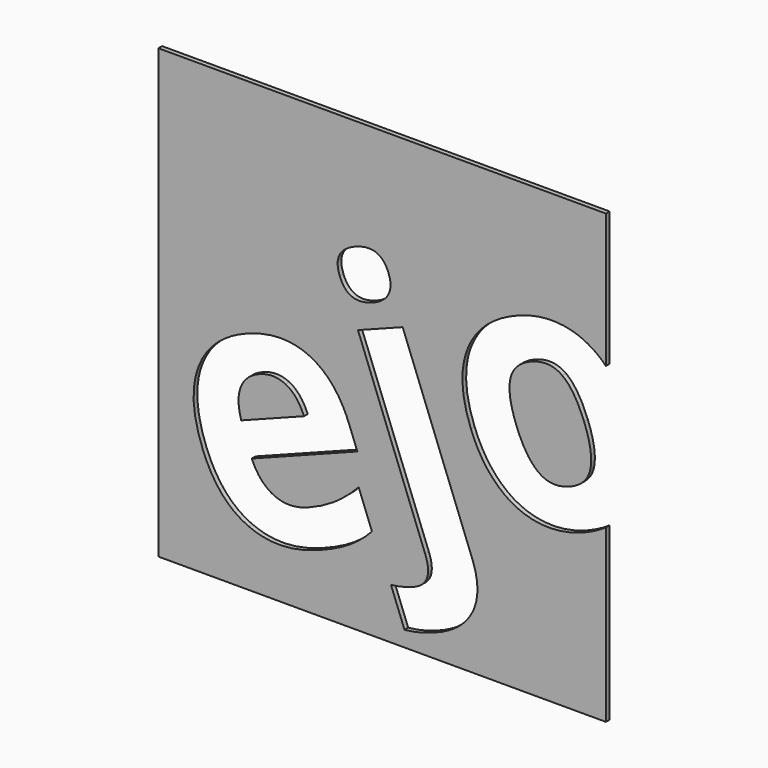
from build123d import *

# Parameters (mm, degrees)
F1_DEPTH = 3


with BuildPart() as f1:
    # F0 (on Front) → F1 (new body)
    with BuildSketch(Plane.XZ):
        with BuildLine():
            Line((156.9402193278, 193.3127623796), (-133.0597806722, 193.3127623796))
            Line((-133.0597806722, 193.3127623796), (-133.0597806722, -96.6872376204))
            Line((-133.0597806722, -96.6872376204), (156.9402193278, -96.6872376204))
            Line((156.9402193278, -96.6872376204), (156.9402193278, 14.2779064416))
            add(Edge.make_bspline(
                [(156.9402193278, 14.2779064416), (150.3960401846, 9.7043804493), (141.8449614262, 6.4219288531)],
                knots=[0.6495913367, 0.6495913367, 0.6495913367, 1, 1, 1], degree=2))
            add(Edge.make_bspline(
                [(141.8449614262, 6.4219288531), (126.5587975418, 0.5541203043), (112.3015772663, 2.7696804424)],
                knots=[0, 0, 0, 1, 1, 1], degree=2))
            add(Edge.make_bspline(
                [(112.3015772663, 2.7696804424), (98.0443569908, 4.9852405805), (86.9719498604, 15.1179921535)],
                knots=[0, 0, 0, 1, 1, 1], degree=2))
            add(Edge.make_bspline(
                [(86.9719498604, 15.1179921535), (75.89954273, 25.2507437265), (69.4834498834, 41.9652370395)],
                knots=[0, 0, 0, 1, 1, 1], degree=2))
            add(Edge.make_bspline(
                [(69.4834498834, 41.9652370395), (59.4976762893, 67.979066632), (67.5256347657, 87.623011686)],
                knots=[0, 0, 0, 1, 1, 1], degree=2))
            add(Edge.make_bspline(
                [(67.5256347657, 87.623011686), (75.5535932422, 107.2669567399), (100.169483394, 116.7161116596)],
                knots=[0, 0, 0, 1, 1, 1], degree=2))
            add(Edge.make_bspline(
                [(100.169483394, 116.7161116596), (115.4556472784, 122.5839202085), (129.6895363071, 120.429140046)],
                knots=[0, 0, 0, 1, 1, 1], degree=2))
            add(Edge.make_bspline(
                [(129.6895363071, 120.429140046), (143.9234253359, 118.2743598836), (154.9608355962, 108.2327782741)],
                knots=[0, 0, 0, 1, 1, 1], degree=2))
            add(Edge.make_bspline(
                [(154.9608355962, 108.2327782741), (155.9698376052, 107.3148114886), (156.9402193278, 106.3410792713)],
                knots=[0, 0, 0, 0.0914165538, 0.0914165538, 0.0914165538], degree=2))
            Line((156.9402193278, 106.3410792713), (156.9402193278, 193.3127623796))
        make_face()
        with BuildLine():
            add(Edge.make_bspline(
                [(-8.7196716461, -49.2474706648), (-16.6388251683, -54.4142969567), (-29.0987201834, -59.1972025333)],
                knots=[0, 0, 0, 1, 1, 1], degree=2))
            add(Edge.make_bspline(
                [(-29.0987201834, -59.1972025333), (-54.717479934, -69.0313230238), (-74.5889046434, -60.4107597844)],
                knots=[0, 0, 0, 1, 1, 1], degree=2))
            add(Edge.make_bspline(
                [(-74.5889046434, -60.4107597844), (-94.4603293529, -51.790196545), (-104.4111060769, -25.8675369161)],
                knots=[0, 0, 0, 1, 1, 1], degree=2))
            add(Edge.make_bspline(
                [(-104.4111060769, -25.8675369161), (-114.6535233849, 0.814872409), (-106.9059851223, 20.508080233)],
                knots=[0, 0, 0, 1, 1, 1], degree=2))
            add(Edge.make_bspline(
                [(-106.9059851223, 20.508080233), (-99.1584468598, 40.2012880571), (-75.6062062824, 49.2421461593)],
                knots=[0, 0, 0, 1, 1, 1], degree=2))
            add(Edge.make_bspline(
                [(-75.6062062824, 49.2421461593), (-53.1176152796, 57.8747074439), (-35.6646850497, 49.8773972036)],
                knots=[0, 0, 0, 1, 1, 1], degree=2))
            add(Edge.make_bspline(
                [(-35.6646850497, 49.8773972036), (-18.2117548197, 41.8800869633), (-9.5325310417, 19.2699360091)],
                knots=[0, 0, 0, 1, 1, 1], degree=2))
            Line((-9.5325310417, 19.2699360091), (-4.1313474271, 5.1993716384))
            Line((-4.1313474271, 5.1993716384), (-72.5999900345, -21.0832777863))
            add(Edge.make_bspline(
                [(-72.5999900345, -21.0832777863), (-67.3775071458, -33.2349628763), (-57.8799977559, -37.5391148487)],
                knots=[0, 0, 0, 1, 1, 1], degree=2))
            add(Edge.make_bspline(
                [(-57.8799977559, -37.5391148487), (-48.382488366, -41.8432668212), (-36.0441533023, -37.107023738)],
                knots=[0, 0, 0, 1, 1, 1], degree=2))
            add(Edge.make_bspline(
                [(-36.0441533023, -37.107023738), (-26.4409171443, -33.420686757), (-18.6654288907, -28.1521023899)],
                knots=[0, 0, 0, 1, 1, 1], degree=2))
            add(Edge.make_bspline(
                [(-18.6654288907, -28.1521023899), (-10.8899406371, -22.8835180228), (-3.270454121, -14.9376790261)],
                knots=[0, 0, 0, 1, 1, 1], degree=2))
            Line((-3.270454121, -14.9376790261), (5.3387759169, -37.3654900533))
            add(Edge.make_bspline(
                [(5.3387759169, -37.3654900533), (-0.8005181238, -44.0806443729), (-8.7196716461, -49.2474706648)],
                knots=[0, 0, 0, 1, 1, 1], degree=2))
        make_face(mode=Mode.SUBTRACT)
        with BuildLine():
            add(Edge.make_bspline(
                [(70.6191115949, -61.8192785463), (64.3565537639, -74.7533855956), (46.4264609373, -81.6361033766)],
                knots=[0, 0, 0, 1, 1, 1], degree=2))
            add(Edge.make_bspline(
                [(46.4264609373, -81.6361033766), (35.3037253872, -85.9057215255), (26.4199643274, -86.5613058057)],
                knots=[0, 0, 0, 1, 1, 1], degree=2))
            Line((26.4199643274, -86.5613058057), (17.6707468092, -63.7688149244))
            add(Edge.make_bspline(
                [(17.6707468092, -63.7688149244), (24.9957015602, -63.049108303), (31.9550087759, -60.3776805541)],
                knots=[0, 0, 0, 1, 1, 1], degree=2))
            add(Edge.make_bspline(
                [(31.9550087759, -60.3776805541), (39.248605858, -57.5779309483), (41.0528681668, -52.1955933908)],
                knots=[0, 0, 0, 1, 1, 1], degree=2))
            add(Edge.make_bspline(
                [(41.0528681668, -52.1955933908), (42.8571304756, -46.8132558334), (39.8007371559, -38.8510790189)],
                knots=[0, 0, 0, 1, 1, 1], degree=2))
            Line((39.8007371559, -38.8510790189), (-3.7353692146, 74.5643556063))
            Line((-3.7353692146, 74.5643556063), (25.2262891985, 85.6816946661))
            Line((25.2262891985, 85.6816946661), (70.3955828391, -31.988338257))
            add(Edge.make_bspline(
                [(70.3955828391, -31.988338257), (76.881669426, -48.885171497), (70.6191115949, -61.8192785463)],
                knots=[0, 0, 0, 1, 1, 1], degree=2))
        make_face(mode=Mode.SUBTRACT)
        with BuildLine():
            add(Edge.make_bspline(
                [(5.7281644365, 93.3297782946), (-10.0442392533, 87.275319772), (-15.515416608, 101.5282240697)],
                knots=[0, 0, 0, 1, 1, 1], degree=2))
            add(Edge.make_bspline(
                [(-15.515416608, 101.5282240697), (-20.9515970927, 115.689958404), (-5.1791934028, 121.7444169266)],
                knots=[0, 0, 0, 1, 1, 1], degree=2))
            add(Edge.make_bspline(
                [(-5.1791934028, 121.7444169266), (10.593210287, 127.7988754491), (16.0293907717, 113.6371411149)],
                knots=[0, 0, 0, 1, 1, 1], degree=2))
            add(Edge.make_bspline(
                [(16.0293907717, 113.6371411149), (18.619159157, 106.890563814), (16.1243602162, 101.6267020908)],
                knots=[0, 0, 0, 1, 1, 1], degree=2))
            add(Edge.make_bspline(
                [(16.1243602162, 101.6267020908), (13.6295612754, 96.3628403675), (5.7281644365, 93.3297782946)],
                knots=[0, 0, 0, 1, 1, 1], degree=2))
        make_face(mode=Mode.SUBTRACT)
    extrude(amount=F1_DEPTH)


with BuildPart() as f1b:
    # F0 (on Front) → F1, piece 2 (new body)
    with BuildSketch(Plane.XZ):
        with BuildLine():
            add(Edge.make_bspline(
                [(-50.6571898824, 28.4840153121), (-58.3064074029, 32.2424120201), (-67.5145737189, 28.7077281427)],
                knots=[0, 0, 0, 1, 1, 1], degree=2))
            add(Edge.make_bspline(
                [(-67.5145737189, 28.7077281427), (-76.722740035, 25.1730442654), (-79.7100182591, 17.3316793823)],
                knots=[0, 0, 0, 1, 1, 1], degree=2))
            add(Edge.make_bspline(
                [(-79.7100182591, 17.3316793823), (-82.6972964832, 9.4903144992), (-79.339081134, -1.5289917929)],
                knots=[0, 0, 0, 1, 1, 1], degree=2))
            Line((-79.339081134, -1.5289917929), (-38.6772774018, 14.0796122596))
            add(Edge.make_bspline(
                [(-38.6772774018, 14.0796122596), (-43.0079723619, 24.7256186042), (-50.6571898824, 28.4840153121)],
                knots=[0, 0, 0, 1, 1, 1], degree=2))
        make_face()
    extrude(amount=F1_DEPTH)


with BuildPart() as f1c:
    # F0 (on Front) → F1, piece 3 (new body)
    with BuildSketch(Plane.XZ):
        with BuildLine():
            add(Edge.make_bspline(
                [(95.028849804, 78.9682381837), (92.902672685, 69.1561309731), (98.9921280777, 53.2925573197)],
                knots=[0, 0, 0, 1, 1, 1], degree=2))
            add(Edge.make_bspline(
                [(98.9921280777, 53.2925573197), (105.0465866003, 37.5201536299), (113.3253025287, 31.4406006404)],
                knots=[0, 0, 0, 1, 1, 1], degree=2))
            add(Edge.make_bspline(
                [(113.3253025287, 31.4406006404), (121.6040184572, 25.3610476509), (133.2737737884, 29.8406470202)],
                knots=[0, 0, 0, 1, 1, 1], degree=2))
            add(Edge.make_bspline(
                [(133.2737737884, 29.8406470202), (144.8827491439, 34.2969151428), (146.8781525471, 44.2680310337)],
                knots=[0, 0, 0, 1, 1, 1], degree=2))
            add(Edge.make_bspline(
                [(146.8781525471, 44.2680310337), (148.8735559502, 54.2391469246), (142.7841005576, 70.102720578)],
                knots=[0, 0, 0, 1, 1, 1], degree=2))
            add(Edge.make_bspline(
                [(142.7841005576, 70.102720578), (136.729642035, 85.8751242679), (128.5816998224, 91.795668577)],
                knots=[0, 0, 0, 1, 1, 1], degree=2))
            add(Edge.make_bspline(
                [(128.5816998224, 91.795668577), (120.4337576097, 97.7162128862), (108.7336122907, 93.2249478935)],
                knots=[0, 0, 0, 1, 1, 1], degree=2))
            add(Edge.make_bspline(
                [(108.7336122907, 93.2249478935), (97.155026923, 88.7803453943), (95.028849804, 78.9682381837)],
                knots=[0, 0, 0, 1, 1, 1], degree=2))
        make_face()
    extrude(amount=F1_DEPTH)


solid = Compound([f1.part, f1b.part, f1c.part])
